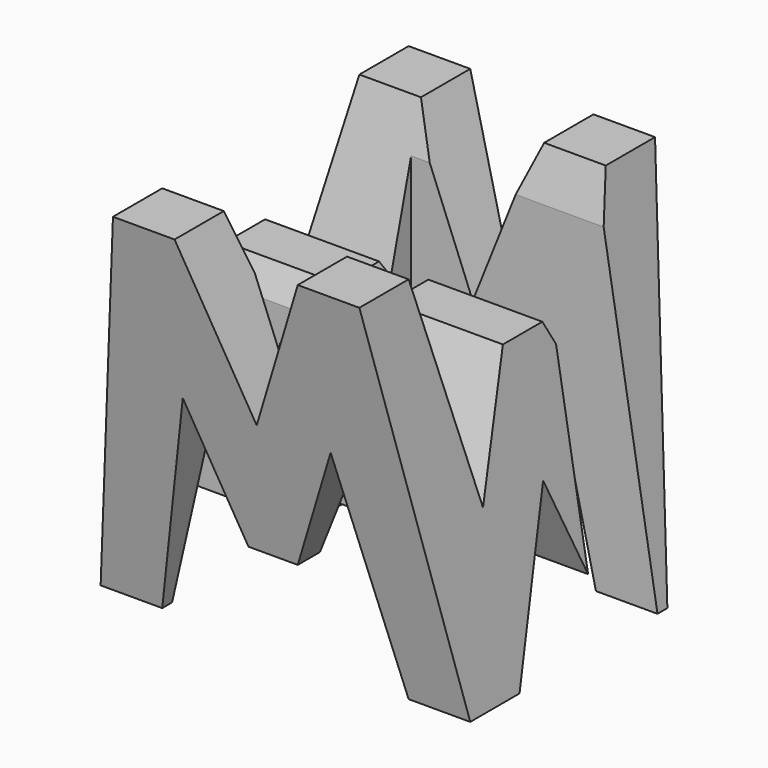
from build123d import *

# Parameters (mm, degrees)
F0_W      = 38.1
F0_H      = 38.1
F1_DEPTH  = 38.1
F6_DEPTH  = 38.1
F8_DEPTH  = 38.1
F9_W      = 25.4
F9_H      = 7.62
F10_DEPTH = 38.1


with BuildPart() as f1:
    # F0 (on Front) → F1 (new body)
    with BuildSketch(Plane.XZ):
        with Locations((19.05, 19.05)):
            Rectangle(F0_W, F0_H)
    extrude(amount=F1_DEPTH)

    # F5 (on offset) → F6 (cut)
    with BuildSketch(Plane.YZ.offset(38.1)):
        Polygon((-11.43, 18.901093), (-6.35, 38.1), (-31.75, 38.1), (-26.67, 16.491907), (-21.59, 28.575), (-16.51, 28.575), align=None)
        Polygon((-6.35, 0), (0, 0), (0, 38.1), align=None)
        Polygon((-25.4, 0), (-12.7, 0), (-19.05, 15.875), align=None)
        Polygon((-31.75, 0), (-38.1, 38.1), (-38.1, 0), align=None)
    extrude(amount=-F6_DEPTH, mode=Mode.SUBTRACT)

    # F7 (on offset) → F8 (cut)
    with BuildSketch(Plane.XZ.offset(38.1)):
        Polygon((0, 38.1), (0, 0), (6.35, 38.1), align=None)
        Polygon((11.43, 22.225), (6.35, 0), (31.75, 0), (26.67, 22.225), (21.59, 9.525), (16.51, 9.525), align=None)
        Polygon((31.75, 38.1), (38.1, 0), (38.1, 38.1), align=None)
        Polygon((25.4, 38.1), (12.7, 38.1), (19.05, 22.225), align=None)
    extrude(amount=-F8_DEPTH, mode=Mode.SUBTRACT)

    # F9 (on offset) → F10 (cut)
    with BuildSketch(Plane.XY.offset(38.1)):
        with Locations((25.4, -11.43)):
            Rectangle(F9_W, F9_H)
        with Locations((12.7, -26.67)):
            Rectangle(F9_W, F9_H)
    extrude(amount=-F10_DEPTH, mode=Mode.SUBTRACT)


solid = f1.part
